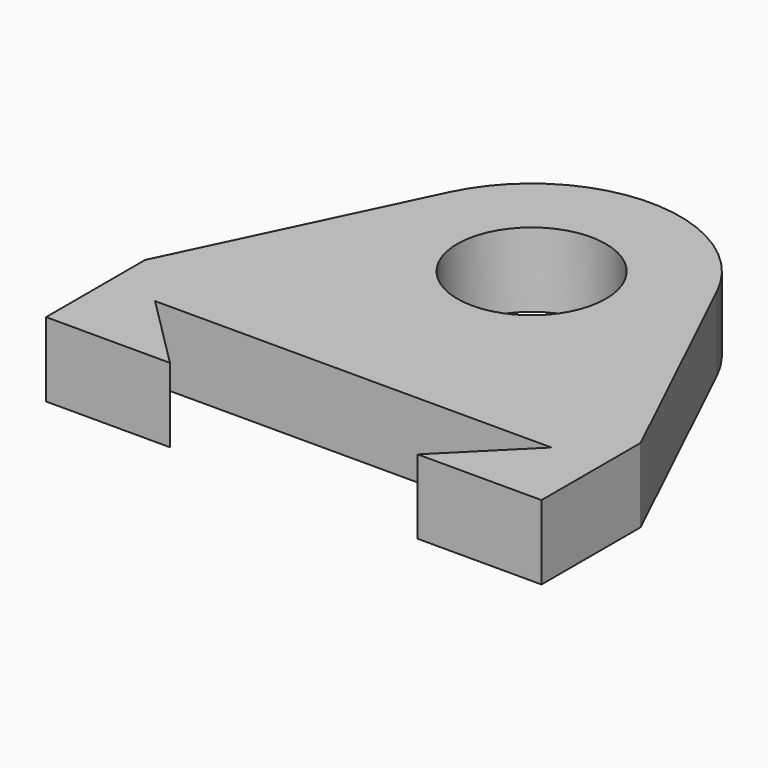
from build123d import *

# Parameters (mm, degrees)
F1_DEPTH = 30


with BuildPart() as f1:
    # F0 (on Top) → F1 (new body)
    with BuildSketch(Plane.XY):
        with BuildLine():
            ThreePointArc((0, -30), (21.213203, -21.213203), (30, 0))
            ThreePointArc((30, 0), (-21.213203, 21.213203), (0, -30))
        make_face()
        with BuildLine():
            ThreePointArc((-54.125243, 25.893205), (-50.762153, -31.987558), (0, -60))
            ThreePointArc((0, -60), (42.426407, -42.426407), (60, 0))
            ThreePointArc((60, 0), (58.512881, 13.275643), (54.125243, 25.893205))
            ThreePointArc((54.125243, 25.893205), (0, 60), (-54.125243, 25.893205))
        make_face()
        with BuildLine():
            ThreePointArc((0, -30), (-21.213203, 21.213203), (30, 0))
            ThreePointArc((30, 0), (21.213203, -21.213203), (0, -30))
        make_face(mode=Mode.SUBTRACT)
        with BuildLine():
            ThreePointArc((60, 0), (42.426407, -42.426407), (0, -60))
            Line((0, -60), (0, -70))
            Line((0, -70), (100, -70))
            Line((100, -70), (54.125243, 25.893205))
            ThreePointArc((54.125243, 25.893205), (58.512881, 13.275643), (60, 0))
        make_face()
        with BuildLine():
            Line((0, -70), (0, -60))
            ThreePointArc((0, -60), (-50.762153, -31.987558), (-54.125243, 25.893205))
            Line((-54.125243, 25.893205), (-100, -70))
            Line((-100, -70), (0, -70))
        make_face()
        Polygon((100, -70), (0, -70), (-100, -70), (-100, -120), (-50, -120), (-80, -90), (80, -90), (50, -120), (100, -120), align=None)
    extrude(amount=F1_DEPTH)


solid = f1.part
